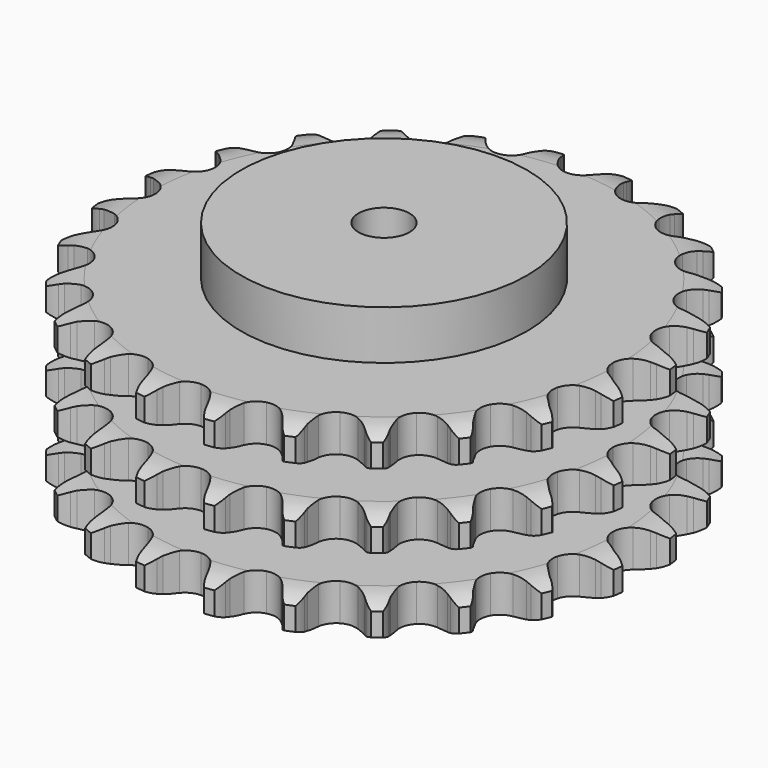
from build123d import *

# Parameters (mm, degrees)
PAD_DEPTH         = 91
SKETCH001_R       = 70
PAD001_DEPTH      = 115
SKETCH002_R       = 12.5
POCKET_DEPTH      = 0.001
POCKET_DEPTH_BACK = 115.001


with BuildPart() as part:
    # Sprocket → Pad (new body)
    with BuildSketch(Plane.XY):
        with BuildLine():
            ThreePointArc((-17.220499, 130.802677), (-14.07962, 127.759778), (-11.902434, 123.967125))
            Line((-11.902434, 123.967125), (-10.977468, 121.658441))
            ThreePointArc((-10.977468, 121.658441), (-9.502577, 118.600676), (-7.624701, 115.77246))
            ThreePointArc((-7.624701, 115.77246), (-4.250715, 113.003502), (0, 112.012374))
            ThreePointArc((0, 112.012374), (4.250715, 113.003502), (7.624701, 115.77246))
            ThreePointArc((7.624701, 115.77246), (9.502577, 118.600676), (10.977468, 121.658441))
            Line((10.977468, 121.658441), (11.902434, 123.967125))
            ThreePointArc((11.902434, 123.967125), (14.07962, 127.759778), (17.220499, 130.802677))
            ThreePointArc((17.220499, 130.802677), (19.466795, 127.050543), (20.588184, 122.823624))
            Line((20.588184, 122.823624), (20.884102, 120.354208))
            ThreePointArc((20.884102, 120.354208), (21.517329, 117.018904), (22.599222, 113.801027))
            ThreePointArc((22.599222, 113.801027), (25.141583, 110.253167), (28.990936, 108.195645))
            ThreePointArc((28.990936, 108.195645), (33.353334, 108.052835), (37.329013, 109.854192))
            Line((37.329013, 109.854192), (42.090941, 114.671852))
            ThreePointArc((42.090941, 114.671852), (42.811513, 115.685826), (43.581921, 116.662471))
            ThreePointArc((43.581921, 116.662471), (46.666533, 119.762395), (50.487949, 121.888691))
            ThreePointArc((50.487949, 121.888691), (51.68658, 117.683023), (51.675752, 113.309896))
            Line((51.675752, 113.309896), (51.322454, 110.848035))
            ThreePointArc((51.322454, 110.848035), (51.070865, 107.462487), (51.283046, 104.074242))
            ThreePointArc((51.283046, 104.074242), (52.820524, 99.989261), (56.006187, 97.005561))
            ThreePointArc((56.006187, 97.005561), (60.182978, 95.738546), (64.489415, 96.449541))
            Line((64.489415, 96.449541), (70.335987, 99.870567))
            ThreePointArc((70.335987, 99.870567), (71.294441, 100.663492), (72.291373, 101.407462))
            ThreePointArc((72.291373, 101.407462), (76.073198, 103.603403), (80.314728, 104.668192))
            ThreePointArc((80.314728, 104.668192), (80.38401, 100.2956), (79.241703, 96.074286))
            Line((79.241703, 96.074286), (78.263267, 93.787751))
            ThreePointArc((78.263267, 93.787751), (77.144006, 90.58268), (76.472014, 87.254969))
            ThreePointArc((76.472014, 87.254969), (76.899833, 82.911252), (79.204709, 79.204709))
            ThreePointArc((79.204709, 79.204709), (82.911252, 76.899833), (87.254969, 76.472014))
            Line((87.254969, 76.472014), (93.787751, 78.263267))
            ThreePointArc((93.787751, 78.263267), (94.918771, 78.781107), (96.074286, 79.241703))
            ThreePointArc((96.074286, 79.241703), (100.2956, 80.38401), (104.668192, 80.314728))
            ThreePointArc((104.668192, 80.314728), (103.603403, 76.073198), (101.407462, 72.291373))
            Line((101.407462, 72.291373), (99.870567, 70.335987))
            ThreePointArc((99.870567, 70.335987), (97.95991, 67.529812), (96.449541, 64.489415))
            ThreePointArc((96.449541, 64.489415), (95.738546, 60.182978), (97.005561, 56.006187))
            ThreePointArc((97.005561, 56.006187), (99.989261, 52.820524), (104.074242, 51.283046))
            Line((104.074242, 51.283046), (110.848035, 51.322454))
            ThreePointArc((110.848035, 51.322454), (112.074543, 51.529921), (113.309896, 51.675752))
            ThreePointArc((113.309896, 51.675752), (117.683023, 51.68658), (121.888691, 50.487949))
            ThreePointArc((121.888691, 50.487949), (119.762395, 46.666533), (116.662471, 43.581921))
            Line((116.662471, 43.581921), (114.671852, 42.090941))
            ThreePointArc((114.671852, 42.090941), (112.100008, 39.874899), (109.854192, 37.329013))
            ThreePointArc((109.854192, 37.329013), (108.052835, 33.353334), (108.195645, 28.990936))
            ThreePointArc((108.195645, 28.990936), (110.253167, 25.141583), (113.801027, 22.599222))
            Line((113.801027, 22.599222), (120.354208, 20.884102))
            ThreePointArc((120.354208, 20.884102), (121.59262, 20.767055), (122.823624, 20.588184))
            ThreePointArc((122.823624, 20.588184), (127.050543, 19.466795), (130.802677, 17.220499))
            ThreePointArc((130.802677, 17.220499), (127.759778, 14.07962), (123.967125, 11.902434))
            Line((123.967125, 11.902434), (121.658441, 10.977468))
            ThreePointArc((121.658441, 10.977468), (118.600676, 9.502577), (115.77246, 7.624701))
            ThreePointArc((115.77246, 7.624701), (113.003502, 4.250715), (112.012374, 0))
            ThreePointArc((112.012374, 0), (113.003502, -4.250715), (115.77246, -7.624701))
            Line((115.77246, -7.624701), (121.658441, -10.977468))
            ThreePointArc((121.658441, -10.977468), (122.824362, -11.411051), (123.967125, -11.902434))
            ThreePointArc((123.967125, -11.902434), (127.759778, -14.07962), (130.802677, -17.220499))
            ThreePointArc((130.802677, -17.220499), (127.050543, -19.466795), (122.823624, -20.588184))
            Line((122.823624, -20.588184), (120.354208, -20.884102))
            ThreePointArc((120.354208, -20.884102), (117.018904, -21.517329), (113.801027, -22.599222))
            ThreePointArc((113.801027, -22.599222), (110.253167, -25.141583), (108.195645, -28.990936))
            ThreePointArc((108.195645, -28.990936), (108.052835, -33.353334), (109.854192, -37.329013))
            Line((109.854192, -37.329013), (114.671852, -42.090941))
            ThreePointArc((114.671852, -42.090941), (115.685826, -42.811513), (116.662471, -43.581921))
            ThreePointArc((116.662471, -43.581921), (119.762395, -46.666533), (121.888691, -50.487949))
            ThreePointArc((121.888691, -50.487949), (117.683023, -51.68658), (113.309896, -51.675752))
            Line((113.309896, -51.675752), (110.848035, -51.322454))
            ThreePointArc((110.848035, -51.322454), (107.462487, -51.070865), (104.074242, -51.283046))
            ThreePointArc((104.074242, -51.283046), (99.989261, -52.820524), (97.005561, -56.006187))
            ThreePointArc((97.005561, -56.006187), (95.738546, -60.182978), (96.449541, -64.489415))
            Line((96.449541, -64.489415), (99.870567, -70.335987))
            ThreePointArc((99.870567, -70.335987), (100.663492, -71.294441), (101.407462, -72.291373))
            ThreePointArc((101.407462, -72.291373), (103.603403, -76.073198), (104.668192, -80.314728))
            ThreePointArc((104.668192, -80.314728), (100.2956, -80.38401), (96.074286, -79.241703))
            Line((96.074286, -79.241703), (93.787751, -78.263267))
            ThreePointArc((93.787751, -78.263267), (90.58268, -77.144006), (87.254969, -76.472014))
            ThreePointArc((87.254969, -76.472014), (82.911252, -76.899833), (79.204709, -79.204709))
            ThreePointArc((79.204709, -79.204709), (76.899833, -82.911252), (76.472014, -87.254969))
            Line((76.472014, -87.254969), (78.263267, -93.787751))
            ThreePointArc((78.263267, -93.787751), (78.781107, -94.918771), (79.241703, -96.074286))
            ThreePointArc((79.241703, -96.074286), (80.38401, -100.2956), (80.314728, -104.668192))
            ThreePointArc((80.314728, -104.668192), (76.073198, -103.603403), (72.291373, -101.407462))
            Line((72.291373, -101.407462), (70.335987, -99.870567))
            ThreePointArc((70.335987, -99.870567), (67.529812, -97.95991), (64.489415, -96.449541))
            ThreePointArc((64.489415, -96.449541), (60.182978, -95.738546), (56.006187, -97.005561))
            ThreePointArc((56.006187, -97.005561), (52.820524, -99.989261), (51.283046, -104.074242))
            Line((51.283046, -104.074242), (51.322454, -110.848035))
            ThreePointArc((51.322454, -110.848035), (51.529921, -112.074543), (51.675752, -113.309896))
            ThreePointArc((51.675752, -113.309896), (51.68658, -117.683023), (50.487949, -121.888691))
            ThreePointArc((50.487949, -121.888691), (46.666533, -119.762395), (43.581921, -116.662471))
            Line((43.581921, -116.662471), (42.090941, -114.671852))
            ThreePointArc((42.090941, -114.671852), (39.874899, -112.100008), (37.329013, -109.854192))
            ThreePointArc((37.329013, -109.854192), (33.353334, -108.052835), (28.990936, -108.195645))
            ThreePointArc((28.990936, -108.195645), (25.141583, -110.253167), (22.599222, -113.801027))
            Line((22.599222, -113.801027), (20.884102, -120.354208))
            ThreePointArc((20.884102, -120.354208), (20.767055, -121.59262), (20.588184, -122.823624))
            ThreePointArc((20.588184, -122.823624), (19.466795, -127.050543), (17.220499, -130.802677))
            ThreePointArc((17.220499, -130.802677), (14.07962, -127.759778), (11.902434, -123.967125))
            Line((11.902434, -123.967125), (10.977468, -121.658441))
            ThreePointArc((10.977468, -121.658441), (9.502577, -118.600676), (7.624701, -115.77246))
            ThreePointArc((7.624701, -115.77246), (4.250715, -113.003502), (0, -112.012374))
            ThreePointArc((0, -112.012374), (-4.250715, -113.003502), (-7.624701, -115.77246))
            Line((-7.624701, -115.77246), (-10.977468, -121.658441))
            ThreePointArc((-10.977468, -121.658441), (-11.411051, -122.824362), (-11.902434, -123.967125))
            ThreePointArc((-11.902434, -123.967125), (-14.07962, -127.759778), (-17.220499, -130.802677))
            ThreePointArc((-17.220499, -130.802677), (-19.466795, -127.050543), (-20.588184, -122.823624))
            Line((-20.588184, -122.823624), (-20.884102, -120.354208))
            ThreePointArc((-20.884102, -120.354208), (-21.517329, -117.018904), (-22.599222, -113.801027))
            ThreePointArc((-22.599222, -113.801027), (-25.141583, -110.253167), (-28.990936, -108.195645))
            ThreePointArc((-28.990936, -108.195645), (-33.353334, -108.052835), (-37.329013, -109.854192))
            Line((-37.329013, -109.854192), (-42.090941, -114.671852))
            ThreePointArc((-42.090941, -114.671852), (-42.811513, -115.685826), (-43.581921, -116.662471))
            ThreePointArc((-43.581921, -116.662471), (-46.666533, -119.762395), (-50.487949, -121.888691))
            ThreePointArc((-50.487949, -121.888691), (-51.68658, -117.683023), (-51.675752, -113.309896))
            Line((-51.675752, -113.309896), (-51.322454, -110.848035))
            ThreePointArc((-51.322454, -110.848035), (-51.070865, -107.462487), (-51.283046, -104.074242))
            ThreePointArc((-51.283046, -104.074242), (-52.820524, -99.989261), (-56.006187, -97.005561))
            ThreePointArc((-56.006187, -97.005561), (-60.182978, -95.738546), (-64.489415, -96.449541))
            Line((-64.489415, -96.449541), (-70.335987, -99.870567))
            ThreePointArc((-70.335987, -99.870567), (-71.294441, -100.663492), (-72.291373, -101.407462))
            ThreePointArc((-72.291373, -101.407462), (-76.073198, -103.603403), (-80.314728, -104.668192))
            ThreePointArc((-80.314728, -104.668192), (-80.38401, -100.2956), (-79.241703, -96.074286))
            Line((-79.241703, -96.074286), (-78.263267, -93.787751))
            ThreePointArc((-78.263267, -93.787751), (-77.144006, -90.58268), (-76.472014, -87.254969))
            ThreePointArc((-76.472014, -87.254969), (-76.899833, -82.911252), (-79.204709, -79.204709))
            ThreePointArc((-79.204709, -79.204709), (-82.911252, -76.899833), (-87.254969, -76.472014))
            Line((-87.254969, -76.472014), (-93.787751, -78.263267))
            ThreePointArc((-93.787751, -78.263267), (-94.918771, -78.781107), (-96.074286, -79.241703))
            ThreePointArc((-96.074286, -79.241703), (-100.2956, -80.38401), (-104.668192, -80.314728))
            ThreePointArc((-104.668192, -80.314728), (-103.603403, -76.073198), (-101.407462, -72.291373))
            Line((-101.407462, -72.291373), (-99.870567, -70.335987))
            ThreePointArc((-99.870567, -70.335987), (-97.95991, -67.529812), (-96.449541, -64.489415))
            ThreePointArc((-96.449541, -64.489415), (-95.738546, -60.182978), (-97.005561, -56.006187))
            ThreePointArc((-97.005561, -56.006187), (-99.989261, -52.820524), (-104.074242, -51.283046))
            Line((-104.074242, -51.283046), (-110.848035, -51.322454))
            ThreePointArc((-110.848035, -51.322454), (-112.074543, -51.529921), (-113.309896, -51.675752))
            ThreePointArc((-113.309896, -51.675752), (-117.683023, -51.68658), (-121.888691, -50.487949))
            ThreePointArc((-121.888691, -50.487949), (-119.762395, -46.666533), (-116.662471, -43.581921))
            Line((-116.662471, -43.581921), (-114.671852, -42.090941))
            ThreePointArc((-114.671852, -42.090941), (-112.100008, -39.874899), (-109.854192, -37.329013))
            ThreePointArc((-109.854192, -37.329013), (-108.052835, -33.353334), (-108.195645, -28.990936))
            ThreePointArc((-108.195645, -28.990936), (-110.253167, -25.141583), (-113.801027, -22.599222))
            Line((-113.801027, -22.599222), (-120.354208, -20.884102))
            ThreePointArc((-120.354208, -20.884102), (-121.59262, -20.767055), (-122.823624, -20.588184))
            ThreePointArc((-122.823624, -20.588184), (-127.050543, -19.466795), (-130.802677, -17.220499))
            ThreePointArc((-130.802677, -17.220499), (-127.759778, -14.07962), (-123.967125, -11.902434))
            Line((-123.967125, -11.902434), (-121.658441, -10.977468))
            ThreePointArc((-121.658441, -10.977468), (-118.600676, -9.502577), (-115.77246, -7.624701))
            ThreePointArc((-115.77246, -7.624701), (-113.003502, -4.250715), (-112.012374, 0))
            ThreePointArc((-112.012374, 0), (-113.003502, 4.250715), (-115.77246, 7.624701))
            Line((-115.77246, 7.624701), (-121.658441, 10.977468))
            ThreePointArc((-121.658441, 10.977468), (-122.824362, 11.411051), (-123.967125, 11.902434))
            ThreePointArc((-123.967125, 11.902434), (-127.759778, 14.07962), (-130.802677, 17.220499))
            ThreePointArc((-130.802677, 17.220499), (-127.050543, 19.466795), (-122.823624, 20.588184))
            Line((-122.823624, 20.588184), (-120.354208, 20.884102))
            ThreePointArc((-120.354208, 20.884102), (-117.018904, 21.517329), (-113.801027, 22.599222))
            ThreePointArc((-113.801027, 22.599222), (-110.253167, 25.141583), (-108.195645, 28.990936))
            ThreePointArc((-108.195645, 28.990936), (-108.052835, 33.353334), (-109.854192, 37.329013))
            Line((-109.854192, 37.329013), (-114.671852, 42.090941))
            ThreePointArc((-114.671852, 42.090941), (-115.685826, 42.811513), (-116.662471, 43.581921))
            ThreePointArc((-116.662471, 43.581921), (-119.762395, 46.666533), (-121.888691, 50.487949))
            ThreePointArc((-121.888691, 50.487949), (-117.683023, 51.68658), (-113.309896, 51.675752))
            Line((-113.309896, 51.675752), (-110.848035, 51.322454))
            ThreePointArc((-110.848035, 51.322454), (-107.462487, 51.070865), (-104.074242, 51.283046))
            ThreePointArc((-104.074242, 51.283046), (-99.989261, 52.820524), (-97.005561, 56.006187))
            ThreePointArc((-97.005561, 56.006187), (-95.738546, 60.182978), (-96.449541, 64.489415))
            Line((-96.449541, 64.489415), (-99.870567, 70.335987))
            ThreePointArc((-99.870567, 70.335987), (-100.663492, 71.294441), (-101.407462, 72.291373))
            ThreePointArc((-101.407462, 72.291373), (-103.603403, 76.073198), (-104.668192, 80.314728))
            ThreePointArc((-104.668192, 80.314728), (-100.2956, 80.38401), (-96.074286, 79.241703))
            Line((-96.074286, 79.241703), (-93.787751, 78.263267))
            ThreePointArc((-93.787751, 78.263267), (-90.58268, 77.144006), (-87.254969, 76.472014))
            ThreePointArc((-87.254969, 76.472014), (-82.911252, 76.899833), (-79.204709, 79.204709))
            ThreePointArc((-79.204709, 79.204709), (-76.899833, 82.911252), (-76.472014, 87.254969))
            Line((-76.472014, 87.254969), (-78.263267, 93.787751))
            ThreePointArc((-78.263267, 93.787751), (-78.781107, 94.918771), (-79.241703, 96.074286))
            ThreePointArc((-79.241703, 96.074286), (-80.38401, 100.2956), (-80.314728, 104.668192))
            ThreePointArc((-80.314728, 104.668192), (-76.073198, 103.603403), (-72.291373, 101.407462))
            Line((-72.291373, 101.407462), (-70.335987, 99.870567))
            ThreePointArc((-70.335987, 99.870567), (-67.529812, 97.95991), (-64.489415, 96.449541))
            ThreePointArc((-64.489415, 96.449541), (-60.182978, 95.738546), (-56.006187, 97.005561))
            ThreePointArc((-56.006187, 97.005561), (-52.820524, 99.989261), (-51.283046, 104.074242))
            Line((-51.283046, 104.074242), (-51.322454, 110.848035))
            ThreePointArc((-51.322454, 110.848035), (-51.529921, 112.074543), (-51.675752, 113.309896))
            ThreePointArc((-51.675752, 113.309896), (-51.68658, 117.683023), (-50.487949, 121.888691))
            ThreePointArc((-50.487949, 121.888691), (-46.666533, 119.762395), (-43.581921, 116.662471))
            Line((-43.581921, 116.662471), (-42.090941, 114.671852))
            ThreePointArc((-42.090941, 114.671852), (-39.874899, 112.100008), (-37.329013, 109.854192))
            ThreePointArc((-37.329013, 109.854192), (-33.353334, 108.052835), (-28.990936, 108.195645))
            ThreePointArc((-28.990936, 108.195645), (-25.141583, 110.253167), (-22.599222, 113.801027))
            Line((-22.599222, 113.801027), (-20.884102, 120.354208))
            ThreePointArc((-20.884102, 120.354208), (-20.767055, 121.59262), (-20.588184, 122.823624))
            ThreePointArc((-20.588184, 122.823624), (-19.466795, 127.050543), (-17.220499, 130.802677))
        make_face()
    extrude(amount=PAD_DEPTH)

    # Sketch → Groove (revolve, cut)
    with BuildSketch(Plane.XZ):
        with BuildLine():
            ThreePointArc((114.648368, 0), (122.131683, 0.887302), (129.2, 3.5))
            Line((129.2, 3.5), (129.2, 14.7))
            ThreePointArc((129.2, 14.7), (122.131683, 17.312698), (114.648368, 18.2))
            Line((70, 18.2), (114.648368, 18.2))
            Line((70, 18.2), (70, 36.4))
            Line((70, 36.4), (114.648368, 36.4))
            ThreePointArc((114.648368, 36.4), (122.131683, 37.287302), (129.2, 39.9))
            Line((129.2, 51.1), (129.2, 39.9))
            ThreePointArc((129.2, 51.1), (122.131683, 53.712698), (114.648368, 54.6))
            Line((70, 54.6), (114.648368, 54.6))
            Line((70, 72.8), (70, 54.6))
            Line((114.648368, 72.8), (70, 72.8))
            ThreePointArc((114.648368, 72.8), (122.131683, 73.687302), (129.2, 76.3))
            Line((129.2, 76.3), (129.2, 87.5))
            ThreePointArc((129.2, 87.5), (122.131683, 90.112698), (114.648368, 91))
            Line((114.648368, 91), (139.2, 91))
            Line((139.2, 91), (139.2, 0))
            Line((114.648368, 0), (139.2, 0))
        make_face()
    revolve(axis=Axis((0, 0, 0), (0, 0, 1)), mode=Mode.SUBTRACT)

    # Sketch001 → Pad001 (join)
    with BuildSketch(Plane.XY):
        Circle(SKETCH001_R)
    extrude(amount=PAD001_DEPTH)

    # Sketch002 → Pocket (cut, two sides)
    with BuildSketch(Plane.XY) as pocket_sk:
        Circle(SKETCH002_R)
    extrude(amount=-POCKET_DEPTH, mode=Mode.SUBTRACT)
    extrude(pocket_sk.sketch, amount=POCKET_DEPTH_BACK, mode=Mode.SUBTRACT)


solid = part.part
